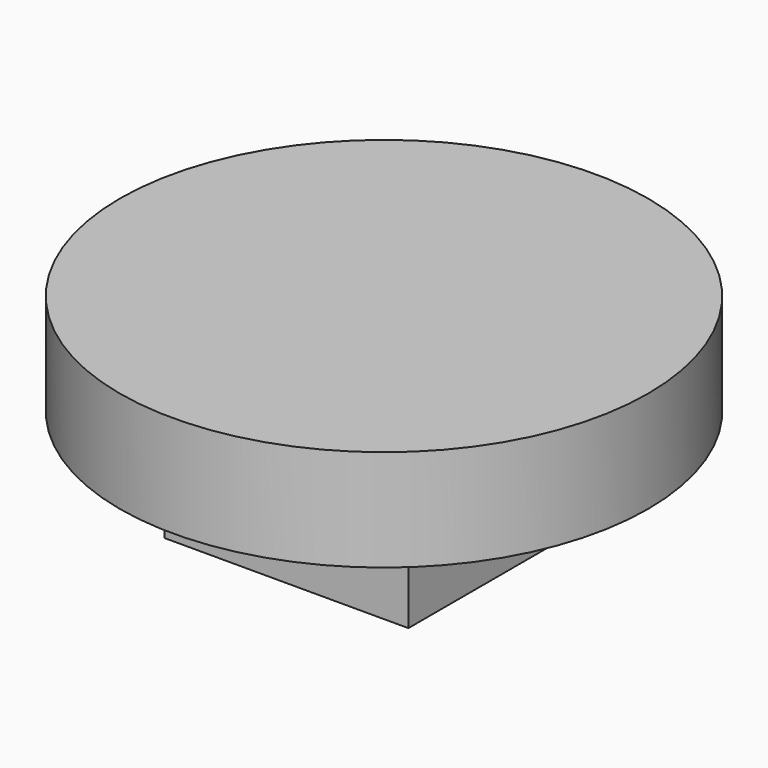
from build123d import *

# Parameters (mm, degrees)
F0_W     = 60
F0_H     = 60
F1_DEPTH = 25
F2_R     = 65
F2_W     = 60
F2_H     = 60
F3_DEPTH = 25


with BuildPart() as f1:
    # F0 (on Top) → F1 (new body)
    with BuildSketch(Plane.XY):
        Rectangle(F0_W, F0_H)
    extrude(amount=F1_DEPTH)

    # F2 (on face) → F3 (join)
    with BuildSketch(Plane.XY.offset(25)):
        Circle(F2_R)
        Rectangle(F2_W, F2_H, mode=Mode.SUBTRACT)
        Rectangle(F2_W, F2_H)
    extrude(amount=F3_DEPTH)


solid = f1.part
